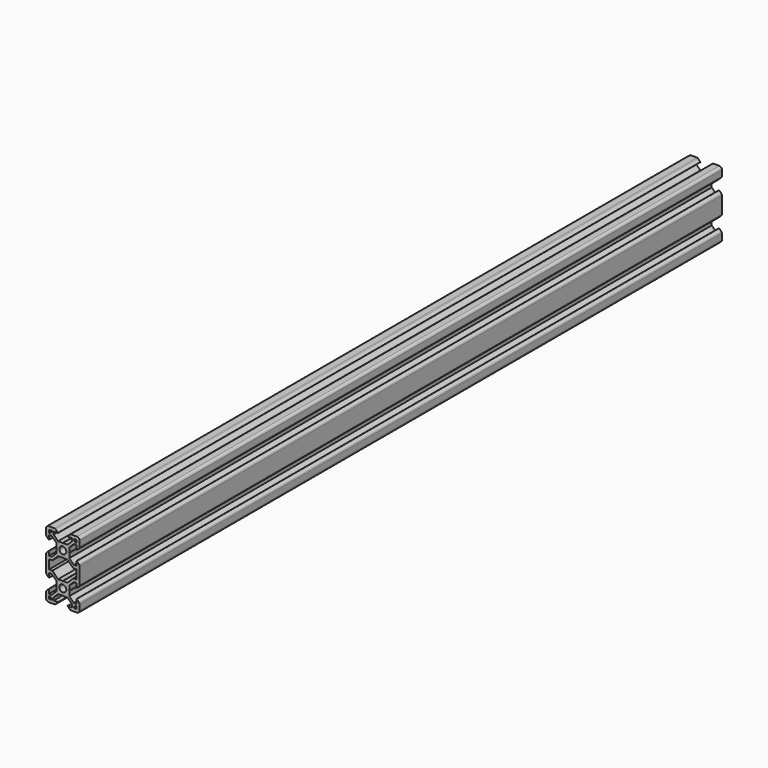
from build123d import *

# Parameters (mm, degrees)
F2_DEPTH = 480


with BuildPart() as f2:
    # F0 (on Front) → F2 (new body)
    with BuildSketch(Plane.XZ):
        with BuildLine():
            Line((5.0927712857, 0), (1.5, 0))
            ThreePointArc((1.5, 0), (0.4393398282, -0.4393398282), (0, -1.5))
            Line((0, -1.5), (0, -5.0927712857))
            ThreePointArc((0, -5.0927712857), (0.0601351693, -5.3950911973), (0.2313856429, -5.6513856429))
            Line((0.2313856429, -5.6513856429), (1.69, -7.11))
            Line((1.69, -7.11), (1.8, -7.11))
            Line((1.8, -7.11), (1.8, -4.5006601718))
            Line((1.8, -4.5006601718), (3.44, -4.5006601718))
            Line((3.44, -4.5006601718), (6.1000000155, -7.1606601718))
            Line((6.1000000155, -7.1606601718), (6.1000000155, -9.9))
            Line((6.1000000155, -9.9), (6.2000000155, -10))
            Line((6.2000000155, -10), (6.1000000155, -10.1))
            Line((6.1000000155, -10.1), (6.1000000155, -12.8393398605))
            Line((6.1000000155, -12.8393398605), (3.44, -15.4993398916))
            Line((3.44, -15.4993398916), (1.8, -15.4993398916))
            Line((1.8, -15.4993398916), (1.8, -12.8893398916))
            Line((1.8, -12.8893398916), (1.69, -12.8893398916))
            Line((1.69, -12.8893398916), (0.2313856429, -14.3479542487))
            ThreePointArc((0.2313856429, -14.3479542487), (0.0601351693, -14.6042486943), (0, -14.9065686059))
            Line((0, -14.9065686059), (0, -20))
            Line((0, -20), (0, -25.0934313941))
            ThreePointArc((0, -25.0934313941), (0.0601351693, -25.3957513057), (0.2313856429, -25.6520457513))
            Line((0.2313856429, -25.6520457513), (1.69, -27.1106601084))
            Line((1.69, -27.1106601084), (1.8, -27.1106601084))
            Line((1.8, -27.1106601084), (1.8, -24.5006601084))
            Line((1.8, -24.5006601084), (3.44, -24.5006601084))
            Line((3.44, -24.5006601084), (6.1000000155, -27.1606601395))
            Line((6.1000000155, -27.1606601395), (6.1000000155, -29.9))
            Line((6.1000000155, -29.9), (6.2000000155, -30))
            Line((6.2000000155, -30), (6.1000000155, -30.1))
            Line((6.1000000155, -30.1), (6.1000000155, -32.8393398282))
            Line((6.1000000155, -32.8393398282), (3.44, -35.4993398282))
            Line((3.44, -35.4993398282), (1.8, -35.4993398282))
            Line((1.8, -35.4993398282), (1.8, -32.89))
            Line((1.8, -32.89), (1.69, -32.89))
            Line((1.69, -32.89), (0.2313856429, -34.3486143571))
            ThreePointArc((0.2313856429, -34.3486143571), (0.0601351693, -34.6049088027), (0, -34.9072287143))
            Line((0, -34.9072287143), (0, -38.5))
            ThreePointArc((0, -38.5), (0.4393398282, -39.5606601718), (1.5, -40))
            Line((1.5, -40), (5.0927712857, -40))
            ThreePointArc((5.0927712857, -40), (5.3950911973, -39.9398648307), (5.6513856429, -39.7686143571))
            Line((5.6513856429, -39.7686143571), (7.11, -38.31))
            Line((7.11, -38.31), (7.11, -38.2))
            Line((7.11, -38.2), (4.5006601718, -38.2))
            Line((4.5006601718, -38.2), (4.5006601718, -36.56))
            Line((4.5006601718, -36.56), (7.1606601873, -33.9))
            Line((7.1606601873, -33.9), (9.9000000155, -33.9))
            Line((9.9000000155, -33.9), (10.0000000478, -33.8000000323))
            Line((10.0000000478, -33.8000000323), (10.1000000802, -33.9))
            Line((10.1000000802, -33.9), (12.8393399084, -33.9))
            Line((12.8393399084, -33.9), (15.4993399239, -36.56))
            Line((15.4993399239, -36.56), (15.4993399239, -38.2))
            Line((15.4993399239, -38.2), (12.8900000957, -38.2))
            Line((12.8900000957, -38.2), (12.8900000957, -38.31))
            Line((12.8900000957, -38.31), (14.3486144528, -39.7686143571))
            ThreePointArc((14.3486144528, -39.7686143571), (14.6049088984, -39.9398648307), (14.90722881, -40))
            Line((14.90722881, -40), (18.5000000957, -40))
            ThreePointArc((18.5000000957, -40), (19.5606602675, -39.5606601718), (20.0000000957, -38.5))
            Line((20.0000000957, -38.5), (20.0000000957, -34.9072287143))
            ThreePointArc((20.0000000957, -34.9072287143), (19.9398649264, -34.6049088027), (19.7686144528, -34.3486143571))
            Line((19.7686144528, -34.3486143571), (18.3100000957, -32.89))
            Line((18.3100000957, -32.89), (18.2000000957, -32.89))
            Line((18.2000000957, -32.89), (18.2000000957, -35.4993398282))
            Line((18.2000000957, -35.4993398282), (16.5600000957, -35.4993398282))
            Line((16.5600000957, -35.4993398282), (13.9000000802, -32.8393398282))
            Line((13.9000000802, -32.8393398282), (13.9000000802, -30.1))
            Line((13.9000000802, -30.1), (13.8000000802, -30))
            Line((13.8000000802, -30), (13.9000000802, -29.9))
            Line((13.9000000802, -29.9), (13.9000000802, -27.1606601395))
            Line((13.9000000802, -27.1606601395), (16.5600000957, -24.5006601084))
            Line((16.5600000957, -24.5006601084), (18.2000000957, -24.5006601084))
            Line((18.2000000957, -24.5006601084), (18.2000000957, -27.1106601084))
            Line((18.2000000957, -27.1106601084), (18.3100000957, -27.1106601084))
            Line((18.3100000957, -27.1106601084), (19.7686144528, -25.6520457513))
            ThreePointArc((19.7686144528, -25.6520457513), (19.9398649264, -25.3957513057), (20.0000000957, -25.0934313941))
            Line((20.0000000957, -25.0934313941), (20.0000000957, -20))
            Line((20.0000000957, -20), (20.0000000957, -14.9065686059))
            ThreePointArc((20.0000000957, -14.9065686059), (19.9398649264, -14.6042486943), (19.7686144528, -14.3479542487))
            Line((19.7686144528, -14.3479542487), (18.3100000957, -12.8893398916))
            Line((18.3100000957, -12.8893398916), (18.2000000957, -12.8893398916))
            Line((18.2000000957, -12.8893398916), (18.2000000957, -15.4993398916))
            Line((18.2000000957, -15.4993398916), (16.5600000957, -15.4993398916))
            Line((16.5600000957, -15.4993398916), (13.9000000802, -12.8393398605))
            Line((13.9000000802, -12.8393398605), (13.9000000802, -10.1))
            Line((13.9000000802, -10.1), (13.8000000802, -10))
            Line((13.8000000802, -10), (13.9000000802, -9.9))
            Line((13.9000000802, -9.9), (13.9000000802, -7.1606601718))
            Line((13.9000000802, -7.1606601718), (16.5600000957, -4.5006601718))
            Line((16.5600000957, -4.5006601718), (18.2000000957, -4.5006601718))
            Line((18.2000000957, -4.5006601718), (18.2000000957, -7.11))
            Line((18.2000000957, -7.11), (18.3100000957, -7.11))
            Line((18.3100000957, -7.11), (19.7686144528, -5.6513856429))
            ThreePointArc((19.7686144528, -5.6513856429), (19.9398649264, -5.3950911973), (20.0000000957, -5.0927712857))
            Line((20.0000000957, -5.0927712857), (20.0000000957, -1.5))
            ThreePointArc((20.0000000957, -1.5), (19.5606602675, -0.4393398282), (18.5000000957, 0))
            Line((18.5000000957, 0), (14.90722881, 0))
            ThreePointArc((14.90722881, 0), (14.6049088984, -0.0601351693), (14.3486144528, -0.2313856429))
            Line((14.3486144528, -0.2313856429), (12.8900000957, -1.69))
            Line((12.8900000957, -1.69), (12.8900000957, -1.8))
            Line((12.8900000957, -1.8), (15.4993399239, -1.8))
            Line((15.4993399239, -1.8), (15.4993399239, -3.44))
            Line((15.4993399239, -3.44), (12.8393399084, -6.1))
            Line((12.8393399084, -6.1), (10.1000000802, -6.1))
            Line((10.1000000802, -6.1), (10.0000000478, -6.1999999677))
            Line((10.0000000478, -6.1999999677), (9.9000000155, -6.1))
            Line((9.9000000155, -6.1), (7.1606601873, -6.1))
            Line((7.1606601873, -6.1), (4.5006601718, -3.44))
            Line((4.5006601718, -3.44), (4.5006601718, -1.8))
            Line((4.5006601718, -1.8), (7.11, -1.8))
            Line((7.11, -1.8), (7.11, -1.69))
            Line((7.11, -1.69), (5.6513856429, -0.2313856429))
            ThreePointArc((5.6513856429, -0.2313856429), (5.3950911973, -0.0601351693), (5.0927712857, 0))
        make_face()
        Polygon((1.8, -38.2), (1.8, -36.57), (2.34, -36.57), (3.43, -37.66), (3.43, -38.2), align=None, mode=Mode.SUBTRACT)
        with BuildLine():
            ThreePointArc((10.0000000478, -27.9), (11.4849242883, -28.5150757595), (12.1000000478, -30))
            ThreePointArc((12.1000000478, -30), (11.4849242883, -31.4849242405), (10.0000000478, -32.1))
            ThreePointArc((10.0000000478, -32.1), (8.5150758074, -31.4849242405), (7.9000000478, -30))
            ThreePointArc((7.9000000478, -30), (8.5150758074, -28.5150757595), (10.0000000478, -27.9))
        make_face(mode=Mode.SUBTRACT)
        Polygon((17.6600000957, -36.57), (18.2000000957, -36.57), (18.2000000957, -38.2), (16.5700000957, -38.2), (16.5700000957, -37.66), align=None, mode=Mode.SUBTRACT)
        Polygon((9.9000000478, -13.9000000323), (10.0000000478, -13.8000000323), (10.1000000478, -13.9000000323), (12.8393399084, -13.9000000323), (16.2400000478, -17.3006601916), (18.2000000478, -17.3006601916), (18.2000000478, -20), (18.2000000478, -22.6993398084), (16.2400000478, -22.6993398084), (12.8393399084, -26.0999999677), (10.1000000478, -26.0999999677), (10.0000000478, -26.1999999677), (9.9000000478, -26.0999999677), (7.1606601873, -26.0999999677), (3.7600000478, -22.6993398084), (1.8000000478, -22.6993398084), (1.8000000478, -20), (1.8000000478, -17.3006601916), (3.7600000478, -17.3006601916), (7.1606601873, -13.9000000323), align=None, mode=Mode.SUBTRACT)
        Polygon((1.8, -3.43), (1.8, -1.8), (3.43, -1.8), (3.43, -2.34), (2.34, -3.43), align=None, mode=Mode.SUBTRACT)
        with BuildLine():
            ThreePointArc((7.9000000478, -10), (8.5150758074, -8.5150757595), (10.0000000478, -7.9))
            ThreePointArc((10.0000000478, -7.9), (11.4849242883, -8.5150757595), (12.1000000478, -10))
            ThreePointArc((12.1000000478, -10), (11.4849242883, -11.4849242405), (10.0000000478, -12.1))
            ThreePointArc((10.0000000478, -12.1), (8.5150758074, -11.4849242405), (7.9000000478, -10))
        make_face(mode=Mode.SUBTRACT)
        Polygon((16.5700000957, -2.34), (16.5700000957, -1.8), (18.2000000957, -1.8), (18.2000000957, -3.43), (17.6600000957, -3.43), align=None, mode=Mode.SUBTRACT)
    extrude(amount=F2_DEPTH)


solid = f2.part
